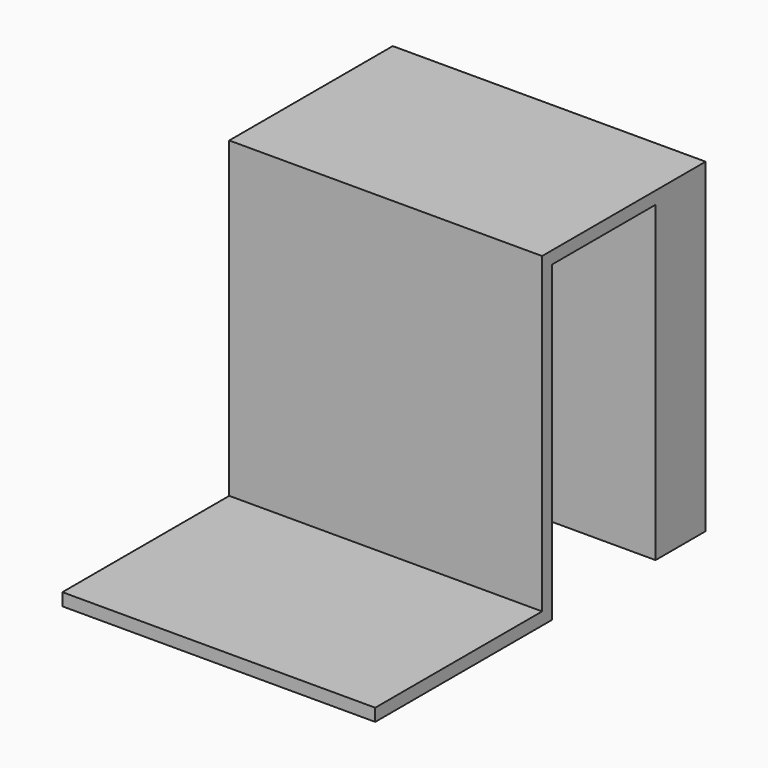
from build123d import *

# Parameters (mm, degrees)
F0_W     = 30
F0_H     = 21.2
F1_DEPTH = 1.2
F2_W     = 30
F2_H     = 1.2
F3_DEPTH = 30
F4_W     = 1.2
F4_H     = 31.2
F5_DEPTH = 18.4
F6_W     = 6
F6_H     = 31.2
F7_DEPTH = 28.8
F8_W     = 28.8
F8_H     = 1.2
F9_DEPTH = 12.4


with BuildPart() as f1:
    # F0 (on Top) → F1 (new body)
    with BuildSketch(Plane.XY):
        with Locations((15, -10.6)):
            Rectangle(F0_W, F0_H)
    extrude(amount=F1_DEPTH)

    # F2 (on face) → F3 (join)
    with BuildSketch(Plane.XY.offset(1.2)):
        with Locations((15, -0.6)):
            Rectangle(F2_W, F2_H)
    extrude(amount=F3_DEPTH)

    # F4 (on face) → F5 (join)
    with BuildSketch(Plane(origin=(0, 0, 0), x_dir=(-1, 0, 0), z_dir=(0, 1, 0))):
        with Locations((-0.6, 15.6)):
            Rectangle(F4_W, F4_H)
    extrude(amount=F5_DEPTH)

    # F6 (on face) → F7 (join)
    with BuildSketch(Plane.YZ.offset(1.2)):
        with Locations((15.4, 15.6)):
            Rectangle(F6_W, F6_H)
    extrude(amount=F7_DEPTH)

    # F8 (on face) → F9 (join, through all)
    with BuildSketch(Plane.XZ.offset(-12.4)):
        with Locations((15.6, 30.6)):
            Rectangle(F8_W, F8_H)
    extrude(amount=F9_DEPTH)


solid = f1.part
